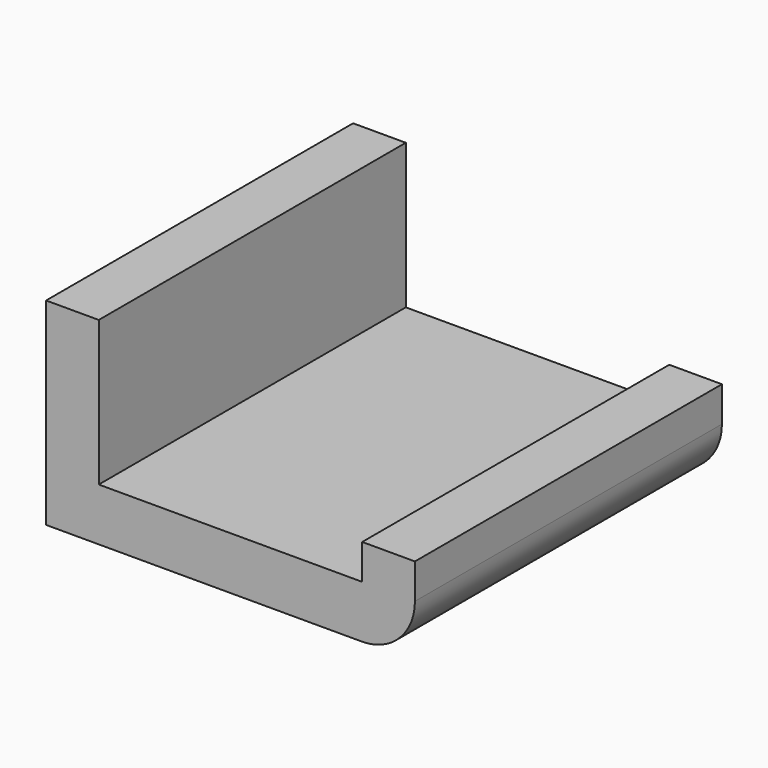
from build123d import *

# Parameters (mm, degrees)
F0_W     = 21.336
F0_H     = 11.43
F1_DEPTH = 22.1996
F2_W     = 15.24
F2_H     = 8.382
F3_DEPTH = 25.4
F4_W     = 3.048
F4_H     = 6.35
F5_DEPTH = 25.4
F6_R     = 3.048


with BuildPart() as f1:
    # F0 (on Front) → F1 (new body)
    with BuildSketch(Plane.XZ):
        Rectangle(F0_W, F0_H)
    extrude(amount=-F1_DEPTH)

    # F2 (on face) → F3 (cut)
    with BuildSketch(Plane.XZ):
        with Locations((0, 1.524)):
            Rectangle(F2_W, F2_H)
    extrude(amount=-F3_DEPTH, mode=Mode.SUBTRACT)

    # F4 (on face) → F5 (cut)
    with BuildSketch(Plane.XZ):
        with Locations((9.144, 2.54)):
            Rectangle(F4_W, F4_H)
    extrude(amount=-F5_DEPTH, mode=Mode.SUBTRACT)

    # F6
    f6_edges = [f1.edges().sort_by_distance(p)[0] for p in [
        (10.668, 11.0998, -5.715),
    ]]
    fillet(f6_edges, radius=F6_R)


solid = f1.part
